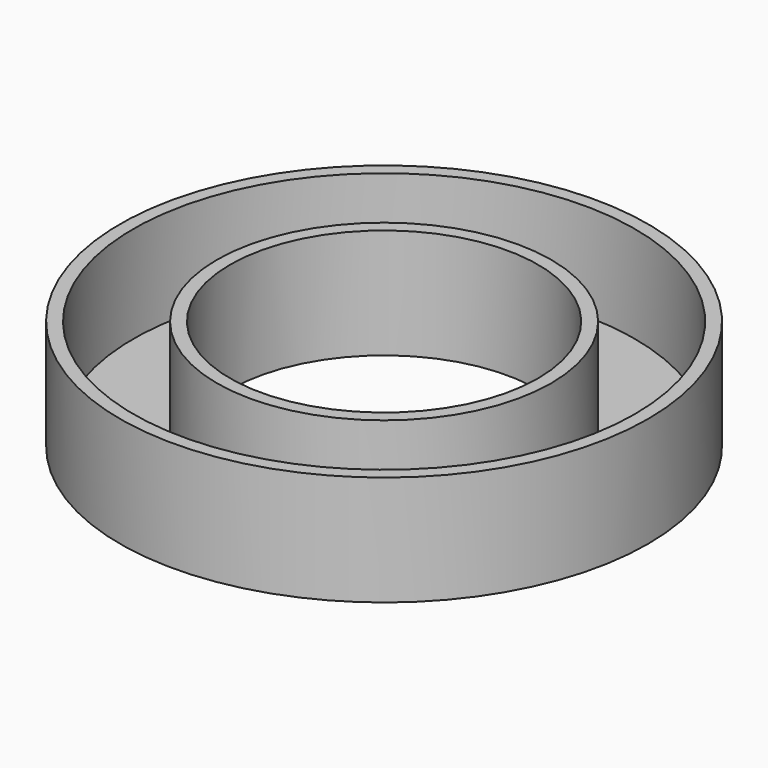
from build123d import *

# Parameters (mm, degrees)
F0_R     = 24
F0_R_2   = 14
F1_DEPTH = 10
F2_T     = -1.2


with BuildPart() as f1:
    # F0 (on Top) → F1 (new body)
    with BuildSketch(Plane.XY):
        Circle(F0_R)
        Circle(F0_R_2, mode=Mode.SUBTRACT)
    extrude(amount=F1_DEPTH)

    # F2
    f2_openings = [f1.faces().sort_by_distance(p)[0] for p in [
        (-23.321177, 0, 10),
    ]]
    offset(amount=F2_T, openings=f2_openings)


solid = f1.part
